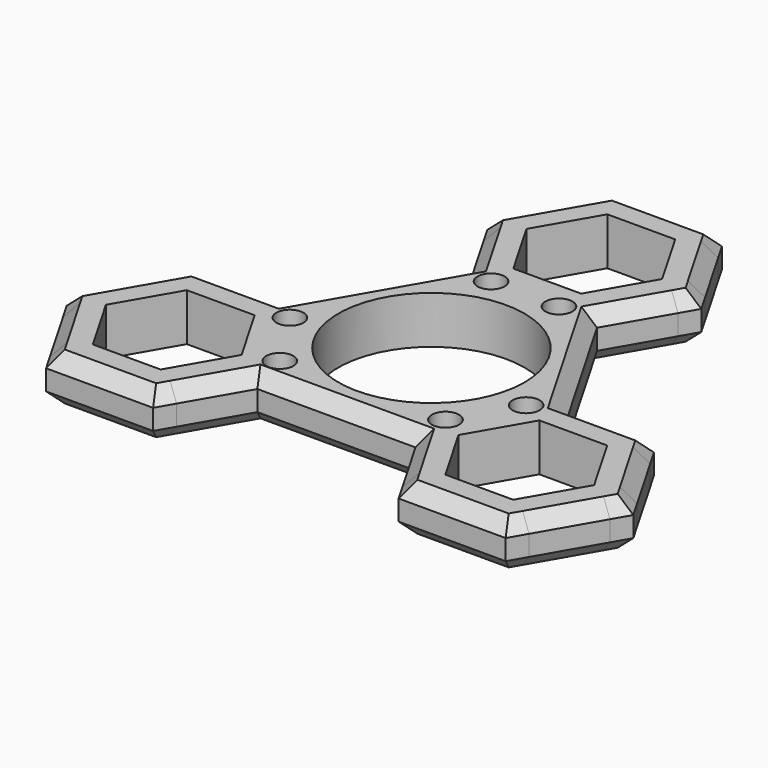
from build123d import *

# Parameters (mm, degrees)
F0_R     = 2
F0_R_2   = 13.725453
F1_DEPTH = 7
F2_SIZE  = 2


with BuildPart() as f1:
    # F0 (on Top) → F1 (new body)
    with BuildSketch(Plane.XY):
        Polygon((5, 43.660253), (-5, 43.660253), (-7.886752, 43.660253), (-9.330152, 41.160211), (-14.330019, 32.500187), (-15.773503, 30), (-14.328388, 27.496988), (-9.330127, 18.839746), (-20.980762, -1.339746), (-30.980762, -1.339746), (-33.867513, -1.339746), (-35.310889, -3.839746), (-40.310889, -12.5), (-41.754264, -15), (-40.310888, -17.499999), (-35.310888, -26.160254), (-33.867512, -28.660255), (-30.980762, -28.660255), (-20.980762, -28.660255), (-18.094012, -28.660255), (-16.649425, -26.158157), (-11.650635, -17.5), (11.650635, -17.5), (16.650482, -26.159988), (18.094012, -28.660255), (20.980762, -28.660255), (30.980762, -28.660255), (33.867512, -28.660255), (35.310888, -26.160254), (40.309298, -17.502755), (41.754264, -15), (40.310625, -12.499543), (35.312513, -3.84256), (33.867513, -1.339746), (30.980762, -1.339746), (20.980762, -1.339746), (9.330127, 18.839746), (14.330123, 27.499994), (15.773503, 30), (14.329358, 32.501332), (9.330202, 41.160124), (7.886752, 43.660253), align=None)
        Polygon((-30.980762, -6.339746), (-20.980762, -6.339746), (-15.980762, -15), (-20.980762, -23.660254), (-30.980762, -23.660254), (-35.980762, -15), align=None, mode=Mode.SUBTRACT)
        with Locations((-11.607334, -13.425)):
            Circle(F0_R, mode=Mode.SUBTRACT)
        with Locations((-17.430058, -4.289746)):
            Circle(F0_R, mode=Mode.SUBTRACT)
        Circle(F0_R_2, mode=Mode.SUBTRACT)
        with Locations((12.430058, -12.95)):
            Circle(F0_R, mode=Mode.SUBTRACT)
        Polygon((20.980762, -23.660254), (15.980762, -15), (20.980762, -6.339746), (30.980762, -6.339746), (35.980762, -15), (30.980762, -23.660254), align=None, mode=Mode.SUBTRACT)
        with Locations((17.430058, -4.339746)):
            Circle(F0_R, mode=Mode.SUBTRACT)
        with Locations((-5, 17.239746)):
            Circle(F0_R, mode=Mode.SUBTRACT)
        Polygon((10, 30), (5, 21.339746), (-5, 21.339746), (-10, 30), (-5, 38.660254), (5, 38.660254), align=None, mode=Mode.SUBTRACT)
        with Locations((5, 17.239746)):
            Circle(F0_R, mode=Mode.SUBTRACT)
    extrude(amount=F1_DEPTH)

    # F2
    f2_edges = [f1.edges().sort_by_distance(p)[0] for p in [
        (-11.830127, 36.830127, 7),
        (0, 43.660253, 7),
        (-12.551815, 24.419873, 7),
        (11.830127, 36.830127, 7),
        (12.551815, 24.419873, 7),
        (15.155444, 8.75, 7),
        (27.424137, -1.339746, 7),
        (37.810888, -8.169873, 7),
        (37.810888, -21.830127, 7),
        (25.980762, -28.660255, 7),
        (14.872323, -23.080127, 7),
        (0, -17.5, 7),
        (-14.872323, -23.080127, 7),
        (-25.980762, -28.660255, 7),
        (-37.810888, -21.830127, 7),
        (-37.810888, -8.169873, 7),
        (-27.424137, -1.339746, 7),
        (-15.155444, 8.75, 7),
        (-27.424137, -1.339746, 0),
        (-37.810888, -8.169873, 0),
        (-37.810888, -21.830127, 0),
        (-25.980762, -28.660255, 0),
        (-14.872323, -23.080127, 0),
        (0, -17.5, 0),
        (14.872323, -23.080127, 0),
        (25.980762, -28.660255, 0),
        (37.810888, -21.830127, 0),
        (37.810888, -8.169873, 0),
        (27.424137, -1.339746, 0),
        (15.155444, 8.75, 0),
        (12.551815, 24.419873, 0),
        (11.830127, 36.830127, 0),
        (0, 43.660253, 0),
        (-11.830127, 36.830127, 0),
        (-12.551815, 24.419873, 0),
        (-15.155444, 8.75, 0),
    ]]
    chamfer(f2_edges, length=F2_SIZE)


solid = f1.part
